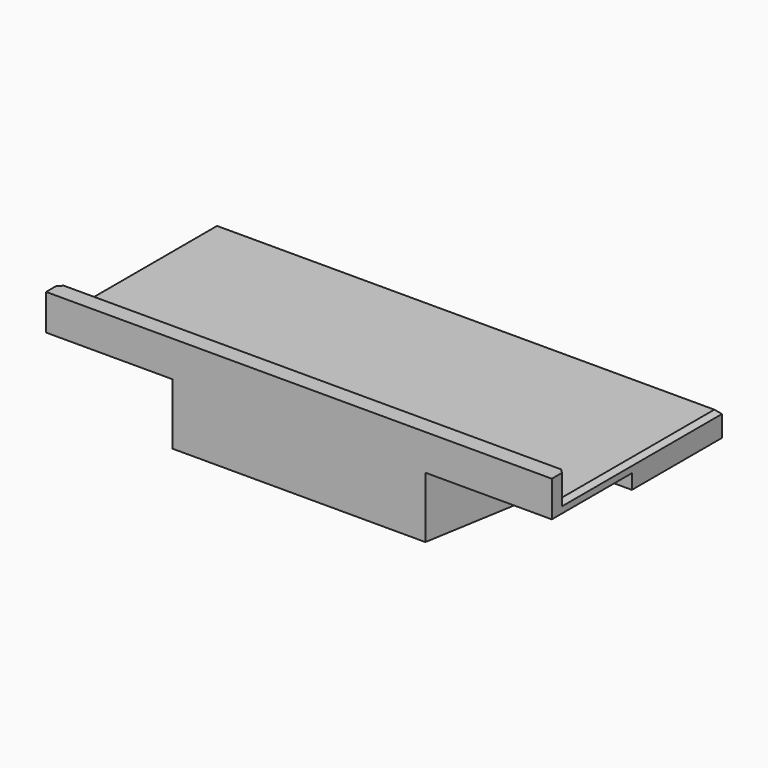
from build123d import *

# Parameters (mm, degrees)
SKETCH025_W          = 25.23103
SKETCH025_H          = 60
PAD004_DEPTH         = 3
PAD005_DEPTH         = 5.5
SKETCH027_R          = 1.5
POCKET005_DEPTH      = 7.25
SKETCH028_W          = 2
SKETCH028_H          = 60
PAD006_DEPTH         = 3
POCKET006_DEPTH      = 1.75
CHAMFER003_SIZE      = 0.5
CHAMFER004_SIZE      = 1
BODY_ROLL_ANGLE      = -180
BODY_PLACEMENT_ANGLE = -90


with BuildPart() as part:
    # Sketch025 → Pad004 (new body)
    with BuildSketch(Plane.XY):
        with Locations((-10.615515, 0)):
            Rectangle(SKETCH025_W, SKETCH025_H)
    extrude(amount=PAD004_DEPTH)

    # Sketch026 (on Face6 of Pad004) → Pad005 (join)
    with BuildSketch(Plane.XY.offset(3)):
        Polygon((-23.23103, 15), (-9.88, 17), (2, 15), (2, -15), (-9.88, -17), (-23.23103, -15), align=None)
    extrude(amount=PAD005_DEPTH)

    # Sketch027 (on Face12 of Pad005) → Pocket005 (cut)
    with BuildSketch(Plane.XY.offset(8.5)):
        with Locations((-2.18, 11.75)):
            Circle(SKETCH027_R)
        with Locations((-2.18, -11.75)):
            Circle(SKETCH027_R)
    extrude(amount=-POCKET005_DEPTH, mode=Mode.SUBTRACT)

    # Sketch028 (on Face4 of Pocket005) → Pad006 (join)
    with BuildSketch(Plane(origin=(0, 0, 0), x_dir=(1, 0, 0), z_dir=(0, 0, -1))):
        with Locations((1, 0)):
            Rectangle(SKETCH028_W, SKETCH028_H)
    extrude(amount=PAD006_DEPTH)

    # Sketch029 (on Face9 of Pad006) → Pocket006 (cut)
    with BuildSketch(Plane.XY.offset(3)):
        Polygon((2, 30), (-9.88, 30), (-9.88, 17), (2, 15), align=None)
        Polygon((2, -30), (2, -15), (-9.88, -17), (-9.88, -30), align=None)
    extrude(amount=-POCKET006_DEPTH, mode=Mode.SUBTRACT)

    # Chamfer003
    chamfer003_edges = [part.edges().sort_by_distance(p)[0] for p in [
        (0, 30, -1.5),
        (0, -30, -1.5),
        (-11.615515, 30, 0),
        (-23.23103, 0, 0),
        (-11.615515, -30, 0),
    ]]
    chamfer(chamfer003_edges, length=CHAMFER003_SIZE)

    # Chamfer004
    chamfer004_edges = [part.edges().sort_by_distance(p)[0] for p in [
        (-3.68, -11.75, 8.5),
        (-3.68, 11.75, 8.5),
    ]]
    chamfer(chamfer004_edges, length=CHAMFER004_SIZE)


with BuildPart() as part_1:
    # Body roll: moved
    add(part.part.rotate(Axis((0, 0, 0), (1, 0, 0)), BODY_ROLL_ANGLE))


with BuildPart() as part_2:
    # Body placement: moved
    add(part_1.part.moved(Location((0, -3, 0))).rotate(Axis((0, -3, 0), (0, 0, 1)), BODY_PLACEMENT_ANGLE))


solid = part_2.part
